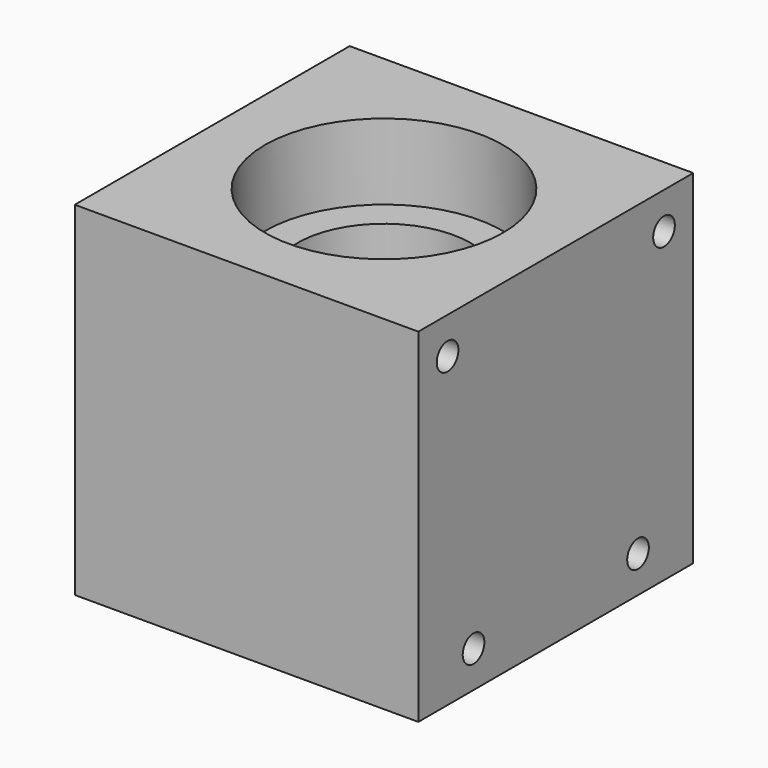
from build123d import *

# Parameters (mm, degrees)
SKETCH_W        = 31.75
SKETCH_H        = 31.75
PAD_DEPTH       = 15.875
SKETCH001_R     = 11
POCKET_DEPTH    = 7
SKETCH002_R     = 8
POCKET001_DEPTH = 34.926
SKETCH003_R     = 1.25
HOLE_DEPTH      = 31.751
SKETCH004_R     = 1.25
HOLE001_DEPTH   = 20
HOLE001_TIPS_R  = 1.25


with BuildPart() as part:
    # Sketch → Pad (new body, symmetric)
    with BuildSketch(Plane.XY):
        Rectangle(SKETCH_W, SKETCH_H)
    extrude(amount=PAD_DEPTH, both=True)

    # Sketch001 (on Face6 of Pad) → Pocket (cut)
    with BuildSketch(Plane.XY.offset(15.875)):
        Circle(SKETCH001_R)
    extrude(amount=-POCKET_DEPTH, mode=Mode.SUBTRACT)

    # Sketch002 → Pocket001 (cut, through all)
    with BuildSketch(Plane.XY.offset(19.05)):
        Circle(SKETCH002_R)
    extrude(amount=-POCKET001_DEPTH, mode=Mode.SUBTRACT)

    # Sketch003 (on Face6 of Pocket001) → Hole (cut, through all)
    with BuildSketch(Plane.YZ.offset(15.875)):
        with Locations((-12.5, 12.5)):
            Circle(SKETCH003_R)
        with Locations((12.5, 12.5)):
            Circle(SKETCH003_R)
        with Locations((9.5, -12.5)):
            Circle(SKETCH003_R)
        with Locations((-9.5, -12.5)):
            Circle(SKETCH003_R)
    extrude(amount=-HOLE_DEPTH, mode=Mode.SUBTRACT)

    # Sketch004 (on Face4 of Pocket001) → Hole001 (cut)
    with BuildSketch(Plane(origin=(0, 0, -15.875), x_dir=(1, 0, 0), z_dir=(0, 0, -1))):
        with Locations((-12.5, 12.5)):
            Circle(SKETCH004_R)
        with Locations((12.5, 12.5)):
            Circle(SKETCH004_R)
        with Locations((12.5, -12.5)):
            Circle(SKETCH004_R)
        with Locations((-12.5, -12.5)):
            Circle(SKETCH004_R)
    extrude(amount=-HOLE001_DEPTH, mode=Mode.SUBTRACT)

    # Hole001 tips → Hole001 tip 1 section 0
    with BuildSketch(Plane(origin=(0, 0, 4.125), x_dir=(1, 0, 0), z_dir=(0, 0, -1)), mode=Mode.PRIVATE) as hole001_tip_1_s0:
        with Locations((-12.5, 12.5)):
            Circle(HOLE001_TIPS_R)
    loft([hole001_tip_1_s0.sketch, Vertex(-12.5, -12.5, 4.876076)], mode=Mode.SUBTRACT)

    # Hole001 tips → Hole001 tip 2 section 0
    with BuildSketch(Plane(origin=(0, 0, 4.125), x_dir=(1, 0, 0), z_dir=(0, 0, -1)), mode=Mode.PRIVATE) as hole001_tip_2_s0:
        with Locations((12.5, 12.5)):
            Circle(HOLE001_TIPS_R)
    loft([hole001_tip_2_s0.sketch, Vertex(12.5, -12.5, 4.876076)], mode=Mode.SUBTRACT)

    # Hole001 tips → Hole001 tip 3 section 0
    with BuildSketch(Plane(origin=(0, 0, 4.125), x_dir=(1, 0, 0), z_dir=(0, 0, -1)), mode=Mode.PRIVATE) as hole001_tip_3_s0:
        with Locations((12.5, -12.5)):
            Circle(HOLE001_TIPS_R)
    loft([hole001_tip_3_s0.sketch, Vertex(12.5, 12.5, 4.876076)], mode=Mode.SUBTRACT)

    # Hole001 tips → Hole001 tip 4 section 0
    with BuildSketch(Plane(origin=(0, 0, 4.125), x_dir=(1, 0, 0), z_dir=(0, 0, -1)), mode=Mode.PRIVATE) as hole001_tip_4_s0:
        with Locations((-12.5, -12.5)):
            Circle(HOLE001_TIPS_R)
    loft([hole001_tip_4_s0.sketch, Vertex(-12.5, 12.5, 4.876076)], mode=Mode.SUBTRACT)


solid = part.part
